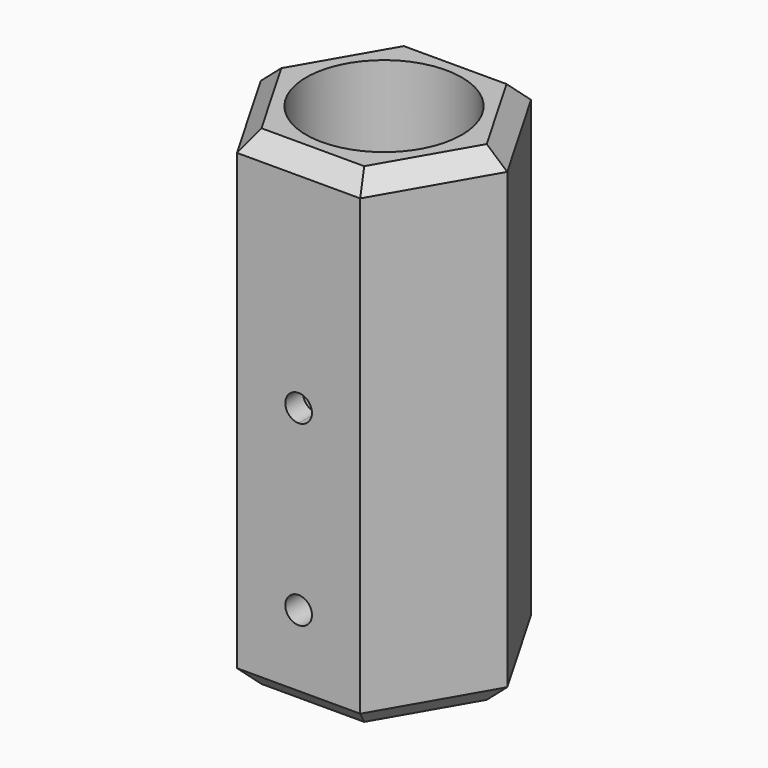
from build123d import *

# Parameters (mm, degrees)
F1_DEPTH = 55
F2_R     = 17.5
F3_DEPTH = 102
F5_DEPTH = 5
F7_DEPTH = 25
F9_DEPTH = 5
F10_SIZE = 4


with BuildPart() as f1:
    # F0 (on Top) → F1 (new body, symmetric)
    with BuildSketch(Plane.XY):
        Polygon((-13.856406, -24), (13.856406, -24), (27.712813, 0), (13.856406, 24), (-13.856406, 24), (-27.712813, 0), align=None)
    extrude(amount=F1_DEPTH, both=True)

    # F2 (on face) → F3 (cut)
    with BuildSketch(Plane.XY.offset(55)):
        Circle(F2_R)
    extrude(amount=-F3_DEPTH, mode=Mode.SUBTRACT)

    # F4 (on face) → F5 (cut)
    with BuildSketch(Plane(origin=(0, 24, 0), x_dir=(-1, 0, 0), z_dir=(0, 1, 0))):
        with BuildLine():
            ThreePointArc((0, 2), (2.12132, 2.87868), (3, 5))
            ThreePointArc((3, 5), (-2.12132, 7.12132), (0, 2))
        make_face()
    extrude(amount=-F5_DEPTH, mode=Mode.SUBTRACT)

    # F6 (on face) → F7 (cut)
    with BuildSketch(Plane.XZ.offset(24)):
        with BuildLine():
            ThreePointArc((0.502708, -35), (0.355468, -34.644532), (0, -34.497292))
            ThreePointArc((0, -34.497292), (-0.355468, -35.355468), (0.502708, -35))
        make_face()
        with BuildLine():
            ThreePointArc((3, -35), (2.12132, -32.87868), (0, -32))
            ThreePointArc((0, -32), (-2.12132, -37.12132), (3, -35))
        make_face()
        with BuildLine():
            ThreePointArc((0.502708, -35), (-0.355468, -35.355468), (0, -34.497292))
            ThreePointArc((0, -34.497292), (0.355468, -34.644532), (0.502708, -35))
        make_face(mode=Mode.SUBTRACT)
        with BuildLine():
            ThreePointArc((0.502708, -35), (0.355468, -34.644532), (0, -34.497292))
            ThreePointArc((0, -34.497292), (-0.355468, -35.355468), (0.502708, -35))
        make_face()
    extrude(amount=-F7_DEPTH, mode=Mode.SUBTRACT)

    # F8 (on face) → F9 (cut)
    with BuildSketch(Plane.XZ.offset(24)):
        with BuildLine():
            ThreePointArc((3, 5), (-2.12132, 7.12132), (0, 2))
            ThreePointArc((0, 2), (2.12132, 2.87868), (3, 5))
        make_face()
    extrude(amount=-F9_DEPTH, mode=Mode.SUBTRACT)

    # F10
    f10_edges = [f1.edges().sort_by_distance(p)[0] for p in [
        (-20.78461, -12, 55),
        (0, -24, 55),
        (0, 24, 55),
        (20.78461, 12, 55),
        (20.78461, -12, 55),
        (-20.78461, 12, 55),
        (-20.78461, -12, -55),
        (0, -24, -55),
        (20.78461, -12, -55),
        (20.78461, 12, -55),
        (0, 24, -55),
        (-20.78461, 12, -55),
    ]]
    chamfer(f10_edges, length=F10_SIZE)


solid = f1.part
